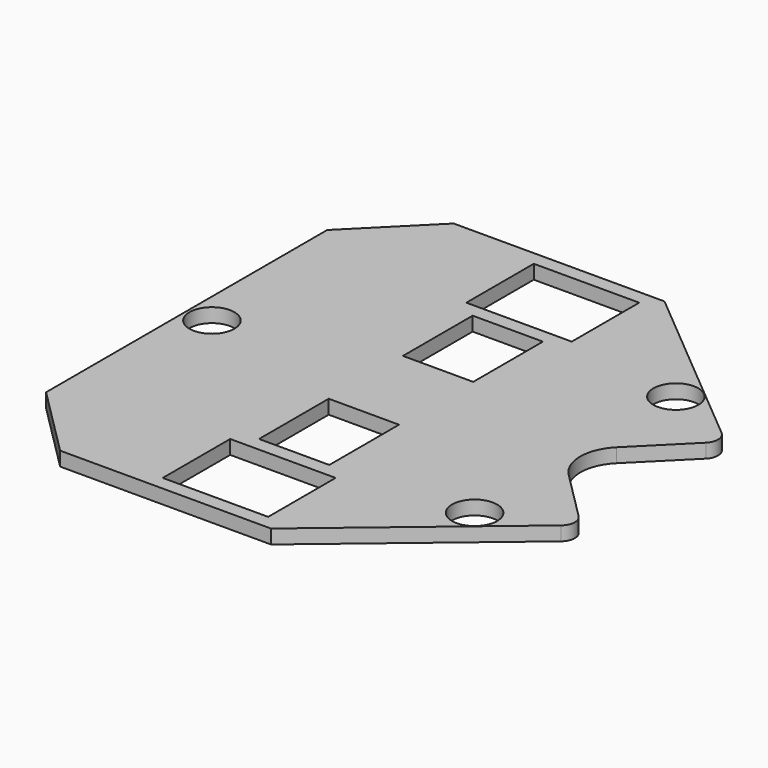
from build123d import *

# Parameters (mm, degrees)
SKETCH_R      = 16
SKETCH_W      = 75
SKETCH_H      = 60
SKETCH_W_2    = 50
SKETCH_H_2    = 62
EXTRUDE_DEPTH = 10


with BuildPart() as part:
    # Sketch → Extrude (new body)
    with BuildSketch(Plane.XY):
        with BuildLine():
            Line((-152.5, 125), (-152.5, -125))
            Line((-152.5, -125), (-102.5, -175))
            Line((-102.5, -175), (47.5, -175))
            Line((47.5, -175), (171.038135, -71.339197))
            ThreePointArc((171.038135, -71.339197), (174.600715, -64.114951), (171.6813, -56.607707))
            Line((136.286797, -21.213204), (171.6813, -56.607707))
            ThreePointArc((136.286797, 21.213204), (127.5, 0), (136.286797, -21.213204))
            Line((171.6813, 56.607707), (136.286797, 21.213204))
            ThreePointArc((171.6813, 56.607707), (174.600715, 64.114951), (171.038135, 71.339197))
            Line((171.038135, 71.339197), (47.5, 175))
            Line((47.5, 175), (-102.5, 175))
            Line((-102.5, 175), (-152.5, 125))
        make_face()
        with Locations((124, 89.5)):
            Circle(SKETCH_R, mode=Mode.SUBTRACT)
        with Locations((124, -89.5)):
            Circle(SKETCH_R, mode=Mode.SUBTRACT)
        with Locations((-134.5, 0)):
            Circle(SKETCH_R, mode=Mode.SUBTRACT)
        with Locations((0, 135)):
            Rectangle(SKETCH_W, SKETCH_H, mode=Mode.SUBTRACT)
        with Locations((0, -135)):
            Rectangle(SKETCH_W, SKETCH_H, mode=Mode.SUBTRACT)
        with Locations((0, 64)):
            Rectangle(SKETCH_W_2, SKETCH_H_2, mode=Mode.SUBTRACT)
        with Locations((0, -64)):
            Rectangle(SKETCH_W_2, SKETCH_H_2, mode=Mode.SUBTRACT)
    extrude(amount=EXTRUDE_DEPTH)


with BuildPart() as part_1:
    # Extrude placement: moved
    add(part.part.moved(Location((0, 0, -30))))


solid = part_1.part
